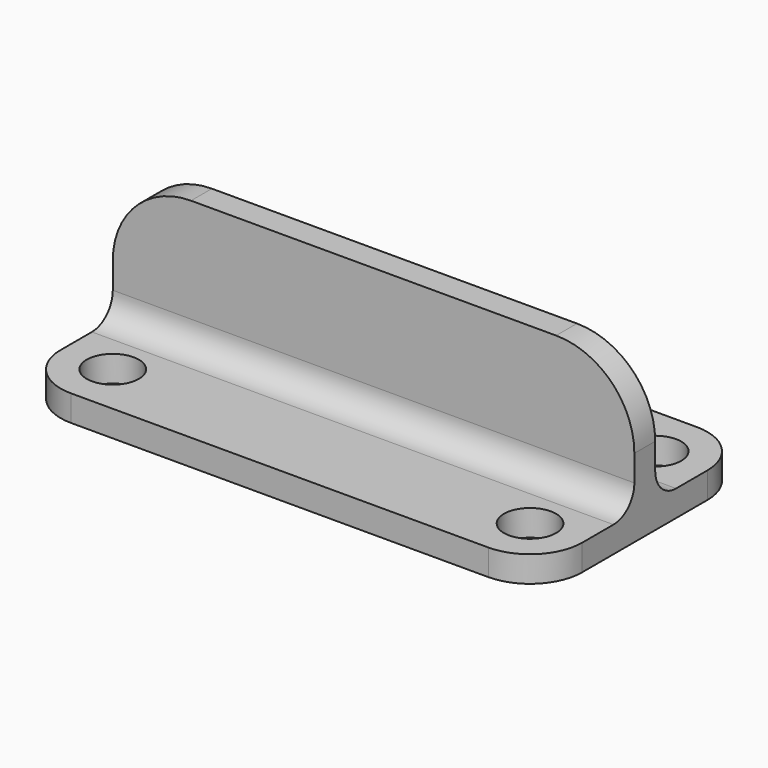
from build123d import *

# Parameters (mm, degrees)
SKETCH_W     = 100
SKETCH_H     = 50
PAD_DEPTH    = 5
SKETCH001_R  = 5
POCKET_DEPTH = 5
SKETCH002_W  = 100
SKETCH002_H  = 5
PAD001_DEPTH = 25
FILLET_R     = 15
FILLET001_R  = 10
FILLET002_R  = 5


with BuildPart() as part:
    # Sketch → Pad (new body)
    with BuildSketch(Plane.XY):
        Rectangle(SKETCH_W, SKETCH_H)
    extrude(amount=PAD_DEPTH)

    # Sketch001 (on Face6 of Pad) → Pocket (cut)
    with BuildSketch(Plane.XY.offset(5)):
        with Locations((-40, 15)):
            Circle(SKETCH001_R)
        with Locations((40, 15)):
            Circle(SKETCH001_R)
        with Locations((40, -15)):
            Circle(SKETCH001_R)
        with Locations((-40, -15)):
            Circle(SKETCH001_R)
    extrude(amount=-POCKET_DEPTH, mode=Mode.SUBTRACT)

    # Sketch002 (on Face5 of Pocket) → Pad001 (join)
    with BuildSketch(Plane.XY.offset(5)):
        Rectangle(SKETCH002_W, SKETCH002_H)
    extrude(amount=PAD001_DEPTH)

    # Fillet
    fillet_edges = [part.edges().sort_by_distance(p)[0] for p in [
        (50, 0, 30),
        (-50, 0, 30),
    ]]
    fillet(fillet_edges, radius=FILLET_R)

    # Fillet001
    fillet001_edges = [part.edges().sort_by_distance(p)[0] for p in [
        (50, 25, 2.5),
        (-50, -25, 2.5),
        (-50, 25, 2.5),
        (50, -25, 2.5),
    ]]
    fillet(fillet001_edges, radius=FILLET001_R)

    # Fillet002
    fillet002_edges = [part.edges().sort_by_distance(p)[0] for p in [
        (0, -2.5, 5),
        (0, 2.5, 5),
    ]]
    fillet(fillet002_edges, radius=FILLET002_R)


solid = part.part
